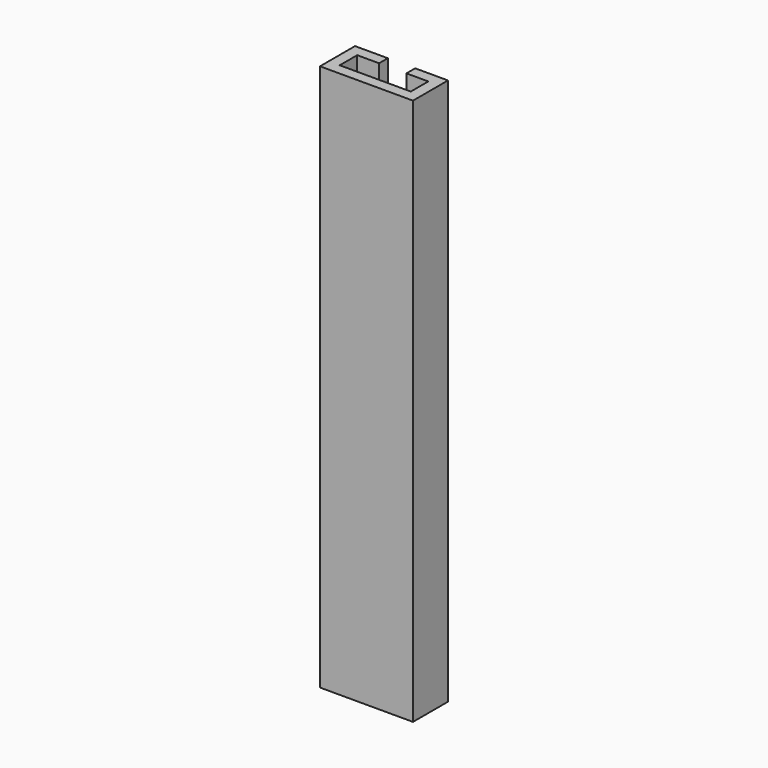
from build123d import *

# Parameters (mm, degrees)
F0_W     = 4
F0_H     = 2
F0_W_2   = 2
F0_H_2   = 4
F0_W_3   = 6.5
F1_DEPTH = 50


with BuildPart() as f1:
    # F0 (on Top) → F1 (new body, symmetric)
    with BuildSketch(Plane.XY):
        with Locations((-4.5, 7)):
            Rectangle(F0_W, F0_H)
        with Locations((-7.5, 7)):
            Rectangle(F0_W_2, F0_H)
        with Locations((-7.5, 4)):
            Rectangle(F0_W_2, F0_H_2)
        with Locations((-7.5, 1)):
            Rectangle(F0_W_2, F0_H)
        with Locations((-3.25, 1)):
            Rectangle(F0_W_3, F0_H)
        with Locations((3.25, 1)):
            Rectangle(F0_W_3, F0_H)
        with Locations((7.5, 1)):
            Rectangle(F0_W_2, F0_H)
        with Locations((7.5, 4)):
            Rectangle(F0_W_2, F0_H_2)
        with Locations((7.5, 7)):
            Rectangle(F0_W_2, F0_H)
        with Locations((4.5, 7)):
            Rectangle(F0_W, F0_H)
    extrude(amount=F1_DEPTH, both=True)


solid = f1.part
